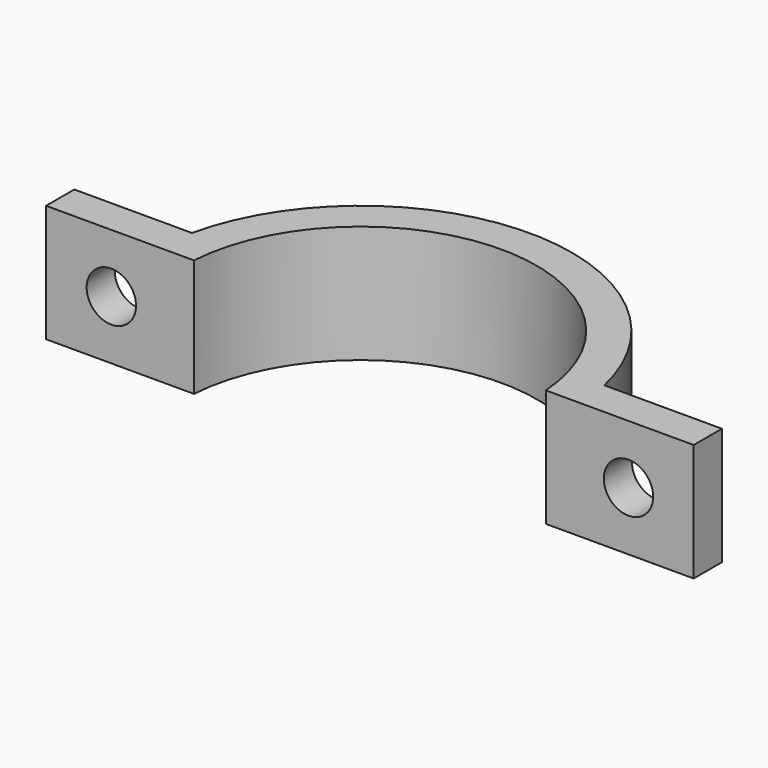
from build123d import *

# Parameters (mm, degrees)
PAD_DEPTH    = 10
SKETCH001_R  = 2.1
POCKET_DEPTH = 134.047902


with BuildPart() as part:
    # Sketch → Pad (new body)
    with BuildSketch(Plane.XY):
        with BuildLine():
            ThreePointArc((14.96663, 0), (0, 14), (-14.96663, 0))
            Line((-27.549929, 0), (-14.96663, 0))
            Line((-27.549929, 3), (-27.549929, 0))
            Line((-17.549929, 3), (-27.549929, 3))
            ThreePointArc((17.549929, 3), (0, 17), (-17.549929, 3))
            Line((27.549929, 3), (17.549929, 3))
            Line((27.549929, 0), (27.549929, 3))
            Line((14.96663, 0), (27.549929, 0))
        make_face()
    extrude(amount=PAD_DEPTH)

    # Sketch001 → Pocket (cut, through all)
    with BuildSketch(Plane.XZ):
        with Locations((-22, 5)):
            Circle(SKETCH001_R)
    pocket = extrude(amount=-POCKET_DEPTH, mode=Mode.SUBTRACT)

    # Mirrored: Pocket across Sketch001 V_Axis
    add(pocket.mirror(Plane(origin=(0, 0, 0), x_dir=(0, -1, 0), z_dir=(1, 0, 0))), mode=Mode.SUBTRACT)


solid = part.part
